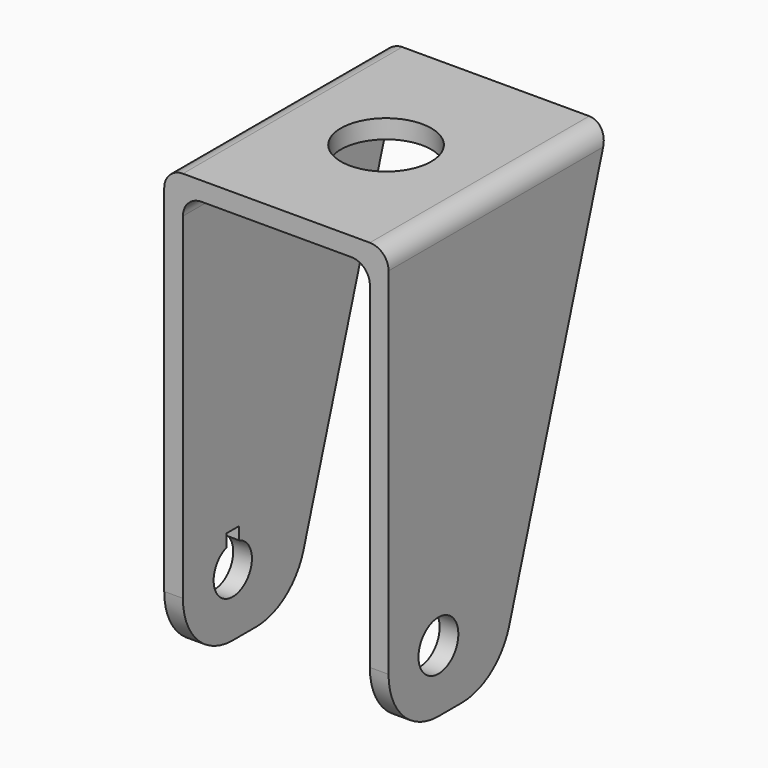
from build123d import *

# Parameters (mm, degrees)
F1_DEPTH = 44
F2_R     = 4
F3_DEPTH = 25
F5_DEPTH = 25
F6_R     = 3
F7_R     = 10
F8_R     = 7.25
F9_DEPTH = 25


with BuildPart() as f1:
    # F0 (on Front) → F1 (new body)
    with BuildSketch(Plane.XZ):
        Polygon((0, 70), (0, 0), (3, 0), (3, 67), (33, 67), (33, 0), (36, 0), (36, 70), align=None)
    extrude(amount=F1_DEPTH)

    # F2 (on face) → F3 (cut)
    with BuildSketch(Plane.YZ.offset(36)):
        with Locations((-34, 10)):
            Circle(F2_R)
        Polygon((0, 0), (0, 70), (-22, 0), align=None)
    extrude(amount=-F3_DEPTH, mode=Mode.SUBTRACT)

    # F4 (on face) → F5 (cut)
    with BuildSketch(Plane(origin=(0, 0, 0), x_dir=(0, -1, 0), z_dir=(-1, 0, 0))):
        Polygon((22, 0), (0, 70), (0, 0), align=None)
        with BuildLine():
            Line((32.75, 15.6304840334), (32.75, 13.6304840334))
            ThreePointArc((32.75, 13.6304840334), (34, 6.1603497142), (35.25, 13.6304840334))
            Line((35.25, 13.6304840334), (35.25, 15.6304840334))
            Line((35.25, 15.6304840334), (32.75, 15.6304840334))
        make_face()
    extrude(amount=-F5_DEPTH, mode=Mode.SUBTRACT)

    # F6
    f6_edges = [f1.edges().sort_by_distance(p)[0] for p in [
        (33, -22.471429, 67),
        (3, -22.471429, 67),
        (36, -22, 70),
        (0, -22, 70),
    ]]
    fillet(f6_edges, radius=F6_R)

    # F7
    f7_edges = [f1.edges().sort_by_distance(p)[0] for p in [
        (1.5, -22, 0),
        (1.5, -44, 0),
        (34.5, -44, 0),
        (34.5, -22, 0),
    ]]
    fillet(f7_edges, radius=F7_R)

    # F8 (on face) → F9 (cut)
    with BuildSketch(Plane.XY.offset(70)):
        with Locations((18, -22)):
            Circle(F8_R)
    extrude(amount=-F9_DEPTH, mode=Mode.SUBTRACT)


solid = f1.part
